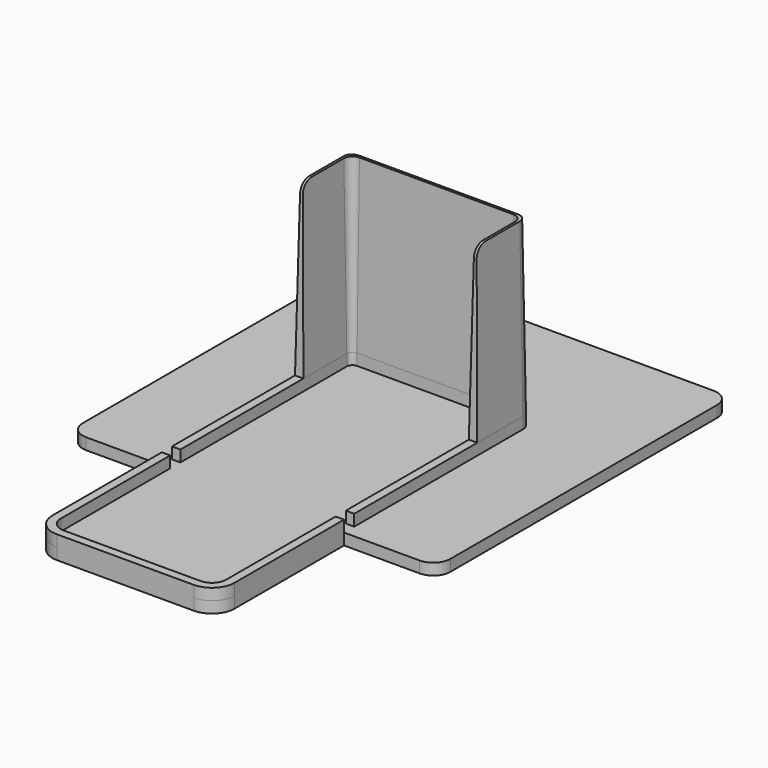
from build123d import *

# Parameters (mm, degrees)
F0_W     = 102.489
F0_H     = 102.489
F1_DEPTH = 3.175
F2_W     = 50.8
F2_H     = 44.45
F3_DEPTH = 3.175
F4_R     = 6.3246
F5_R     = 4.7625
F7_DEPTH = 3.175
F9_DEPTH = 47.625
F9_TAPER = 1
F10_R    = 3.175


with BuildPart() as f1:
    # F0 (on Top) → F1 (new body)
    with BuildSketch(Plane.XY):
        Rectangle(F0_W, F0_H)
    extrude(amount=F1_DEPTH)

    # F2 (on face) → F3 (join)
    with BuildSketch(Plane.XY.offset(3.175)):
        with Locations((0, -73.4695)):
            Rectangle(F2_W, F2_H)
    extrude(amount=-F3_DEPTH)

    # F4
    f4_edges = [f1.edges().sort_by_distance(p)[0] for p in [
        (25.4, -95.6945, 1.5875),
        (-25.4, -95.6945, 1.5875),
    ]]
    fillet(f4_edges, radius=F4_R)

    # F5
    f5_edges = [f1.edges().sort_by_distance(p)[0] for p in [
        (-51.2445, -51.2445, 1.5875),
        (51.2445, -51.2445, 1.5875),
        (51.2445, 51.2445, 1.5875),
        (-51.2445, 51.2445, 1.5875),
    ]]
    fillet(f5_edges, radius=F5_R)

    # F6 (on face) → F7 (join)
    with BuildSketch(Plane.XY.offset(3.175)):
        with BuildLine():
            Line((-25.4, 11.049), (-25.4, -47.6885))
            Line((-25.4, -47.6885), (-23.0632, -47.6885))
            Line((-23.0632, -47.6885), (-23.0632, 10.2997))
            ThreePointArc((-23.0632, 10.2997), (-22.5982320151, 11.4222320151), (-21.4757, 11.8872))
            Line((-21.4757, 11.8872), (21.4757, 11.8872))
            ThreePointArc((21.4757, 11.8872), (22.5982320151, 11.4222320151), (23.0632, 10.2997))
            Line((23.0632, 10.2997), (23.0632, -47.6885))
            Line((23.0632, -47.6885), (25.4, -47.6885))
            Line((25.4, -47.6885), (25.4, 11.049))
            ThreePointArc((25.4, 11.049), (24.4700640303, 13.2940640303), (22.225, 14.224))
            Line((22.225, 14.224), (-22.225, 14.224))
            ThreePointArc((-22.225, 14.224), (-24.4700640303, 13.2940640303), (-25.4, 11.049))
        make_face()
        with BuildLine():
            Line((25.4, -89.3699), (25.4, -51.2445))
            Line((25.4, -51.2445), (23.0632, -51.2445))
            Line((23.0632, -51.2445), (23.0632, -89.3699))
            ThreePointArc((23.0632, -89.3699), (21.895200422, -92.189700422), (19.0754, -93.3577))
            Line((19.0754, -93.3577), (-19.0754, -93.3577))
            ThreePointArc((-19.0754, -93.3577), (-21.895200422, -92.189700422), (-23.0632, -89.3699))
            Line((-23.0632, -89.3699), (-23.0632, -51.2445))
            Line((-23.0632, -51.2445), (-25.4, -51.2445))
            Line((-25.4, -51.2445), (-25.4, -89.3699))
            ThreePointArc((-25.4, -89.3699), (-23.5475675483, -93.8420675483), (-19.0754, -95.6945))
            Line((-19.0754, -95.6945), (19.0754, -95.6945))
            ThreePointArc((19.0754, -95.6945), (23.5475675483, -93.8420675483), (25.4, -89.3699))
        make_face()
    extrude(amount=F7_DEPTH)

    # F8 (on face) → F9 (join)
    with BuildSketch(Plane.XY.offset(6.35)):
        with BuildLine():
            Line((-21.4757, 11.8872), (21.4757, 11.8872))
            ThreePointArc((21.4757, 11.8872), (22.5982320151, 11.4222320151), (23.0632, 10.2997))
            Line((23.0632, 10.2997), (23.0632, -4.826))
            Line((23.0632, -4.826), (25.4, -4.826))
            Line((25.4, -4.826), (25.4, 11.049))
            ThreePointArc((25.4, 11.049), (24.4700640303, 13.2940640303), (22.225, 14.224))
            Line((22.225, 14.224), (-22.225, 14.224))
            ThreePointArc((-22.225, 14.224), (-24.4700640303, 13.2940640303), (-25.4, 11.049))
            Line((-25.4, 11.049), (-25.4, -4.826))
            Line((-25.4, -4.826), (-23.0632, -4.826))
            Line((-23.0632, -4.826), (-23.0632, 10.2997))
            ThreePointArc((-23.0632, 10.2997), (-22.5982320151, 11.4222320151), (-21.4757, 11.8872))
        make_face()
    extrude(amount=F9_DEPTH, taper=F9_TAPER)

    # F10
    f10_edges = [f1.edges().sort_by_distance(p)[0] for p in [
        (-24.2316, -3.994703, 53.975),
        (24.2316, -3.994703, 53.975),
    ]]
    fillet(f10_edges, radius=F10_R)


solid = f1.part
